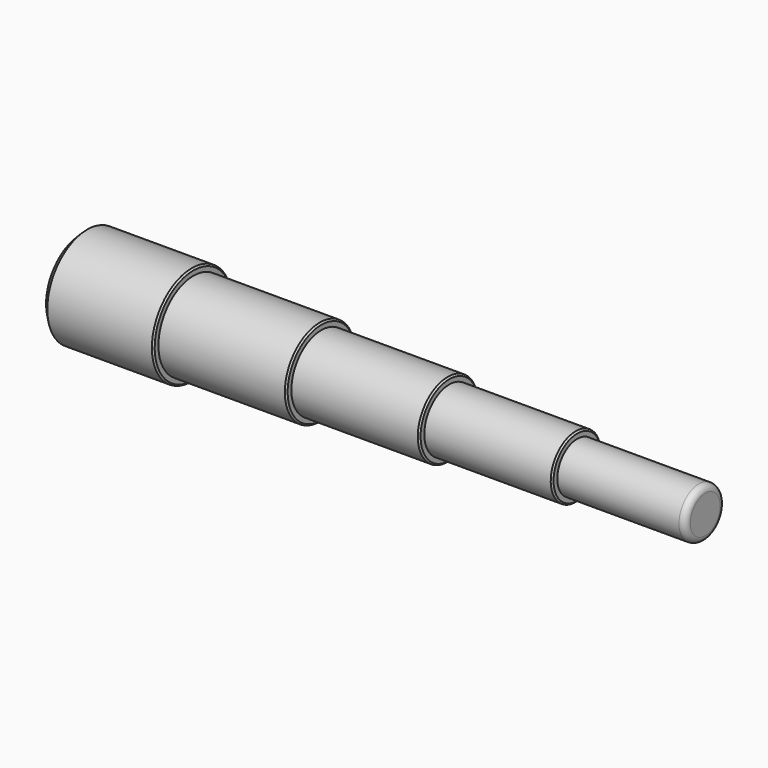
from build123d import *

# Parameters (mm, degrees)
F2_SIZE = 2
F3_SIZE = 0.5
F4_R    = 2


with BuildPart() as f1:
    # F0 (on Front) → F1 (revolve)
    with BuildSketch(Plane.XZ):
        Polygon((-200, 0), (0, 0), (0, 8), (-41, 8), (-41, 10), (-82, 10), (-82, 12), (-123, 12), (-123, 14), (-164, 14), (-164, 16), (-200, 16), align=None)
    revolve(axis=Axis((-100, 0, 0), (-1, 0, 0)))

    # F2
    f2_edges = [f1.edges().sort_by_distance(p)[0] for p in [
        (-200, 0, -16),
    ]]
    chamfer(f2_edges, length=F2_SIZE)

    # F3
    f3_edges = [f1.edges().sort_by_distance(p)[0] for p in [
        (-164, 0, -16),
        (-123, 0, -14),
        (-82, 0, -12),
        (-41, 0, -10),
    ]]
    chamfer(f3_edges, length=F3_SIZE)

    # F4
    f4_edges = [f1.edges().sort_by_distance(p)[0] for p in [
        (0, 0, -8),
    ]]
    fillet(f4_edges, radius=F4_R)


solid = f1.part
